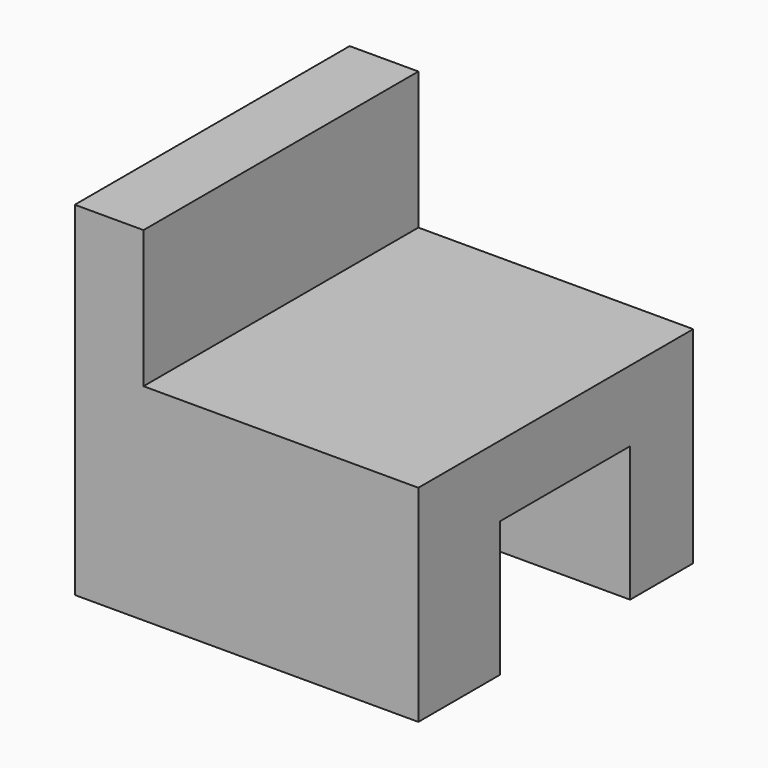
from build123d import *

# Parameters (mm, degrees)
F0_W     = 100
F0_H     = 100
F1_DEPTH = 100
F2_W     = 80
F2_H     = 100
F3_DEPTH = 40
F4_W     = 47.27444
F4_H     = 39.339293
F5_DEPTH = 100.001


with BuildPart() as f1:
    # F0 (on Top) → F1 (new body)
    with BuildSketch(Plane.XY):
        with Locations((-0.449351, 3.352783)):
            Rectangle(F0_W, F0_H)
    extrude(amount=F1_DEPTH)

    # F2 (on face) → F3 (cut)
    with BuildSketch(Plane.XY.offset(100)):
        with Locations((9.550649, 3.352783)):
            Rectangle(F2_W, F2_H)
    extrude(amount=-F3_DEPTH, mode=Mode.SUBTRACT)

    # F4 (on face) → F5 (cut, through all)
    with BuildSketch(Plane.YZ.offset(49.550649)):
        with Locations((6.754881, 19.669646)):
            Rectangle(F4_W, F4_H)
    extrude(amount=-F5_DEPTH, mode=Mode.SUBTRACT)


solid = f1.part
